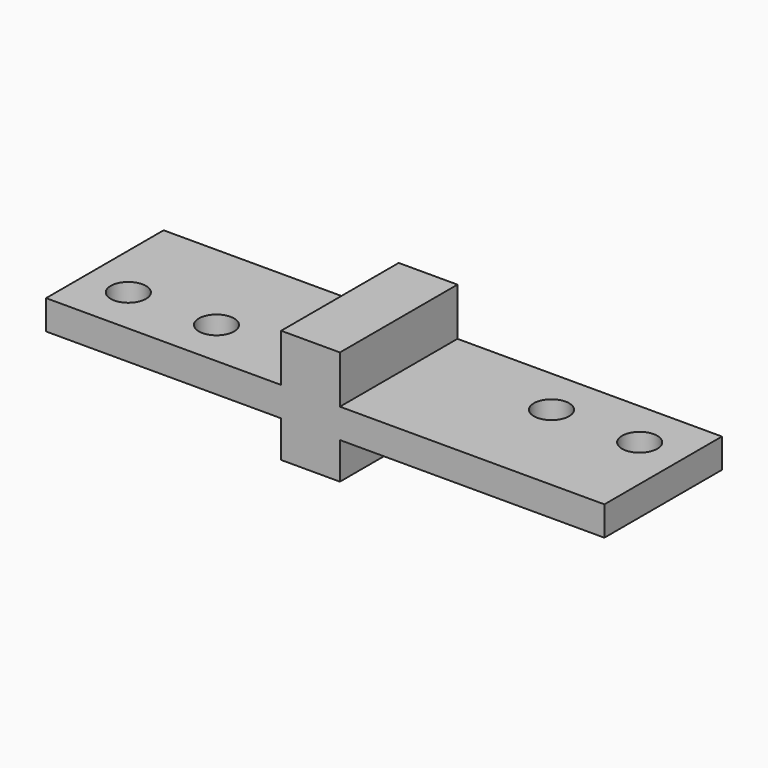
from build123d import *

# Parameters (mm, degrees)
F1_DEPTH = 31.75
F3_D     = 7.62


with BuildPart() as f1:
    # F0 (on Front) → F1 (new body)
    with BuildSketch(Plane.XZ):
        Polygon((0, 6.35), (0, 0), (50.8, 0), (50.8, -7.9248), (63.5, -7.9248), (63.5, 0), (120.65, 0), (120.65, 6.35), (63.5, 6.35), (63.5, 16.6624), (50.8, 16.6624), (50.8, 6.35), align=None)
    extrude(amount=F1_DEPTH)

    # F3 (through all)
    with Locations(Plane(origin=(0, 0, 0), x_dir=(1, 0, 0), z_dir=(0, 0, -1))):
        with Locations((9.525, 21.4376), (28.575, 21.4376), (92.075, 10.3124), (111.125, 10.3124)):
            Hole(F3_D / 2)


solid = f1.part
